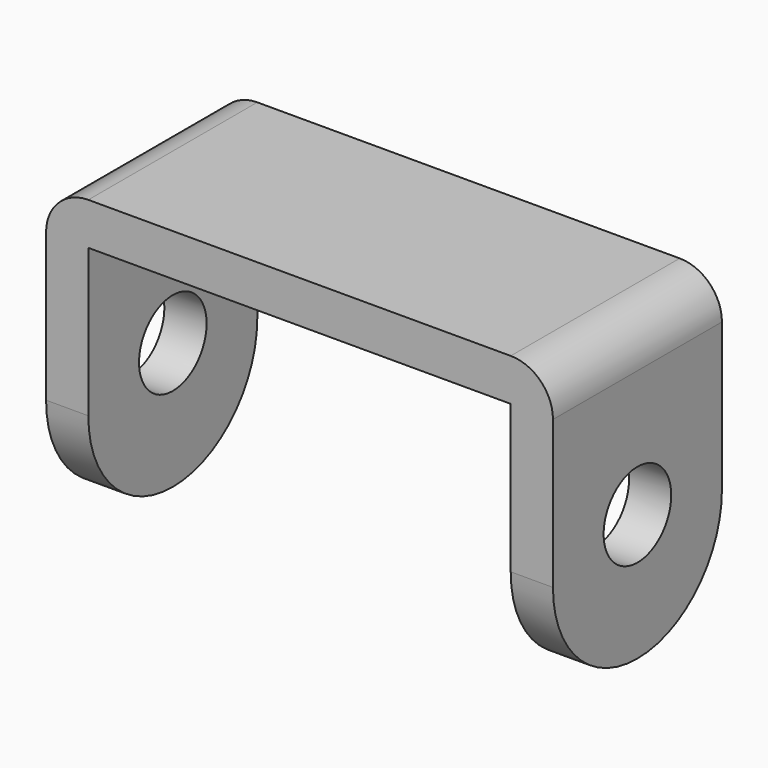
from build123d import *

# Parameters (mm, degrees)
F0_W     = 6.35
F0_H     = 38.1
F1_DEPTH = 31.75
F2_R     = 6.35
F3_DEPTH = 127
F5_DEPTH = 127
F7_DEPTH = 31.75
F8_DEPTH = 31.75


with BuildPart() as f1:
    # F0 (on Front) → F1 (new body)
    with BuildSketch(Plane.XZ):
        with Locations((-3.175, -19.05)):
            Rectangle(F0_W, F0_H)
        Polygon((-6.35, 0), (0, 0), (0, 6.35), (-76.2, 6.35), (-76.2, 0), (-69.85, 0), align=None)
        with Locations((-73.025, -19.05)):
            Rectangle(F0_W, F0_H)
    extrude(amount=F1_DEPTH)

    # F2 (on face) → F3 (cut)
    with BuildSketch(Plane.YZ):
        with Locations((-15.875, -19.05)):
            Circle(F2_R)
    extrude(amount=-F3_DEPTH, mode=Mode.SUBTRACT)

    # F4 (on face) → F5 (cut)
    with BuildSketch(Plane.YZ):
        with BuildLine():
            ThreePointArc((-15.875, -38.1), (-27.10032, -33.45032), (-31.75, -22.225))
            Line((-31.75, -22.225), (-31.75, -38.1))
            Line((-31.75, -38.1), (-15.875, -38.1))
        make_face()
        with BuildLine():
            Line((0, -38.1), (0, -22.225))
            ThreePointArc((0, -22.225), (-4.64968, -33.45032), (-15.875, -38.1))
            Line((-15.875, -38.1), (0, -38.1))
        make_face()
    extrude(amount=-F5_DEPTH, mode=Mode.SUBTRACT)

    # F6 (on face) → F7 (join)
    with BuildSketch(Plane.XZ.offset(31.75)):
        with BuildLine():
            Line((-63.5, 0), (-69.85, 0))
            Line((-69.85, 0), (-69.85, -6.35))
            ThreePointArc((-69.85, -6.35), (-67.990128, -1.859872), (-63.5, 0))
        make_face()
        with BuildLine():
            Line((-6.35, -6.35), (-6.35, 0))
            Line((-6.35, 0), (-12.7, 0))
            ThreePointArc((-12.7, 0), (-8.209872, -1.859872), (-6.35, -6.35))
        make_face()
    extrude(amount=-F7_DEPTH)

    # F6 (on face) → F8 (cut)
    with BuildSketch(Plane.XZ.offset(31.75)):
        with BuildLine():
            ThreePointArc((-76.2, 0), (-74.340128, 4.490128), (-69.85, 6.35))
            Line((-69.85, 6.35), (-76.2, 6.35))
            Line((-76.2, 6.35), (-76.2, 0))
        make_face()
        with BuildLine():
            Line((0, 6.35), (-6.35, 6.35))
            ThreePointArc((-6.35, 6.35), (-1.859872, 4.490128), (0, 0))
            Line((0, 0), (0, 6.35))
        make_face()
        with BuildLine():
            Line((-63.5, 0), (-69.85, 0))
            Line((-69.85, 0), (-69.85, -6.35))
            ThreePointArc((-69.85, -6.35), (-67.990128, -1.859872), (-63.5, 0))
        make_face()
        with BuildLine():
            Line((-6.35, -6.35), (-6.35, 0))
            Line((-6.35, 0), (-12.7, 0))
            ThreePointArc((-12.7, 0), (-8.209872, -1.859872), (-6.35, -6.35))
        make_face()
    extrude(amount=-F8_DEPTH, mode=Mode.SUBTRACT)


solid = f1.part
